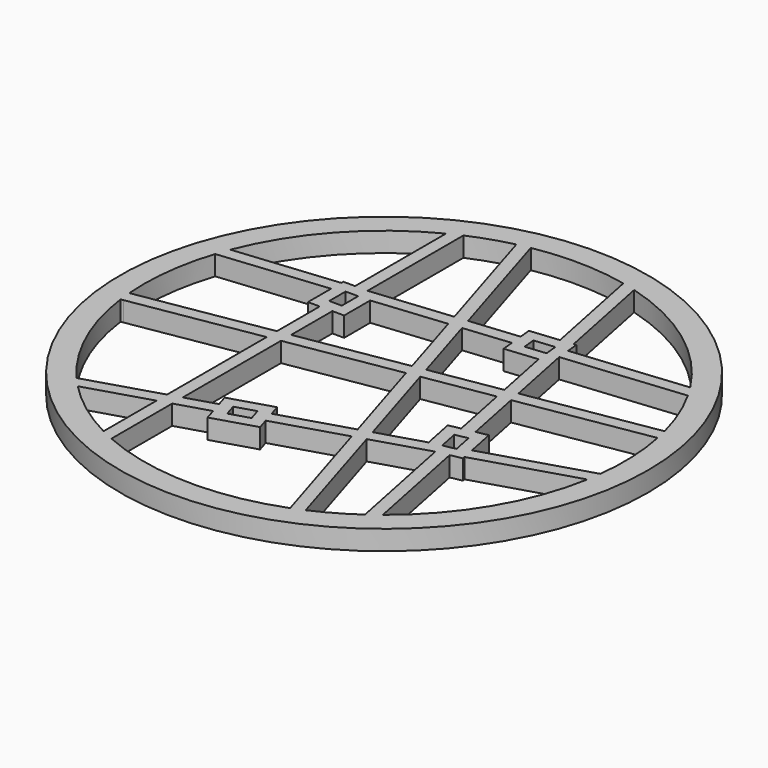
from build123d import *

# Parameters (mm, degrees)
F0_R     = 67
F0_W     = 3.2
F0_H     = 5.2
F1_DEPTH = 5


with BuildPart() as f1:
    # F0 (on Top) → F1 (new body)
    with BuildSketch(Plane.XY):
        Circle(F0_R)
        with BuildLine():
            Line((-43.8061632072, -42.4502068907), (-27.7453339126, -37.5246361488))
            Line((-27.7453339126, -37.5246361488), (-27.7453339126, -54.3249155184))
            ThreePointArc((-27.7453339126, -54.3249155184), (-36.2650846031, -49.0493999834), (-43.8061632072, -42.4502068907))
        make_face(mode=Mode.SUBTRACT)
        with BuildLine():
            Line((-24.5453339126, -36.543253053), (-16.2077082994, -33.9862515417))
            Line((-16.2077082994, -33.9862515417), (-15.32809766, -36.8544016639))
            Line((-15.32809766, -36.8544016639), (-4.620337204, -33.5705219434))
            Line((-4.620337204, -33.5705219434), (-5.4999478434, -30.7023718213))
            Line((-5.4999478434, -30.7023718213), (12.0330121636, -25.3253247681))
            Line((12.0330121636, -25.3253247681), (21.7448194921, -56.9926558888))
            ThreePointArc((21.7448194921, -56.9926558888), (-1.5135076095, -60.9812208365), (-24.5453339126, -55.8437694208))
            Line((-24.5453339126, -55.8437694208), (-24.5453339126, -36.543253053))
        make_face(mode=Mode.SUBTRACT)
        with BuildLine():
            Line((-27.7453339126, -2.5714068584), (-27.7453339126, -34.1775310144))
            Line((-27.7453339126, -34.1775310144), (-46.1961790611, -39.8360771181))
            ThreePointArc((-46.1961790611, -39.8360771181), (-55.6535662863, -24.9735972503), (-60.469385046, -8.0282919824))
            Line((-60.469385046, -8.0282919824), (-59.8046514096, -7.9174446097))
            Line((-59.8046514096, -7.9174446097), (-27.7453339126, -2.5714068584))
        make_face(mode=Mode.SUBTRACT)
        Polygon((-13.3395581772, -33.1066409023), (-14.2778095259, -30.0472807721), (-9.3063493142, -28.5226223304), (-8.3680979656, -31.5819824607), align=None, mode=Mode.SUBTRACT)
        Polygon((-18.0255702875, -28.0587412893), (-17.1459596481, -30.9268914115), (-24.5453339126, -33.1961479186), (-24.5453339126, -2.0377922297), (3.4589808569, 2.6320552794), (11.0947608149, -22.2659646378), (-6.4381991921, -27.643011691), (-7.3178098315, -24.7748615689), align=None, mode=Mode.SUBTRACT)
        with BuildLine():
            Line((15.0923722939, -24.3870734194), (29.0776945802, -20.098023769))
            Line((29.0776945802, -20.098023769), (35.0708025243, -49.9103076559))
            ThreePointArc((35.0708025243, -49.9103076559), (30.0367604433, -53.0923066185), (24.7164230966, -55.7682564665))
            Line((24.7164230966, -55.7682564665), (15.0923722939, -24.3870734194))
        make_face(mode=Mode.SUBTRACT)
        with BuildLine():
            Line((37.9086808974, -47.790500234), (32.2192885129, -19.4890275267))
            Line((32.2192885129, -19.4890275267), (35.16044758, -18.8977717934))
            Line((35.16044758, -18.8977717934), (35.0344853908, -18.2711819544))
            Line((35.0344853908, -18.2711819544), (60.0733303031, -10.5922134746))
            ThreePointArc((60.0733303031, -10.5922134746), (52.402736228, -31.2242411568), (37.9086808974, -47.790500234))
        make_face(mode=Mode.SUBTRACT)
        Polygon((31.6280327797, -16.5478684596), (28.4907964414, -17.1785412418), (27.4659531704, -12.0805321921), (30.6031895087, -11.44985941), align=None, mode=Mode.SUBTRACT)
        Polygon((23.8255728418, 6.0282775984), (26.8746974372, -9.1393731251), (23.9335383701, -9.7306288583), (25.5615882832, -17.8292459105), (14.1541209452, -21.3277132891), (6.6432408292, 3.1630451865), align=None, mode=Mode.SUBTRACT)
        with BuildLine():
            Line((60.5868434596, -7.0876229867), (34.400697228, -15.1184483792))
            Line((34.400697228, -15.1184483792), (32.9530928425, -7.9174446097))
            Line((32.9530928425, -7.9174446097), (30.0119337754, -8.5087003429))
            Line((30.0119337754, -8.5087003429), (26.9837234891, 6.5549136562))
            Line((26.9837234891, 6.5549136562), (59.802483499, 12.0275919182))
            ThreePointArc((59.802483499, 12.0275919182), (60.9487109921, 2.5009255083), (60.5868434596, -7.0876229867))
        make_face(mode=Mode.SUBTRACT)
        with BuildLine():
            Line((-30.7453339126, 14.2669440508), (-27.7453339126, 14.2669440508))
            Line((-27.7453339126, 14.2669440508), (-27.7453339126, 0.6727794143))
            Line((-27.7453339126, 0.6727794143), (-60.8076429886, -4.8405117679))
            ThreePointArc((-60.8076429886, -4.8405117679), (-60.5773112158, 7.1686376578), (-57.9982415713, 18.899840598))
            Line((-57.9982415713, 18.899840598), (-30.7453339126, 21.6120113579))
            Line((-30.7453339126, 21.6120113579), (-30.7453339126, 14.2669440508))
        make_face(mode=Mode.SUBTRACT)
        Polygon((-24.5453339126, 1.206394043), (-24.5453339126, 14.2669440508), (-21.5453339126, 14.2669440508), (-21.5453339126, 22.5275823238), (-3.2024586813, 24.3530392797), (2.5124526937, 5.7184036538), align=None, mode=Mode.SUBTRACT)
        Polygon((0.0455163714, 24.6762731554), (11.7609695409, 25.842178457), (12.0580577422, 22.8569249334), (20.278090913, 23.6749709889), (23.1945533758, 9.1672384904), (5.6967126659, 6.249393561), align=None, mode=Mode.SUBTRACT)
        with Locations((-26.1453339126, 19.8669440508)):
            Rectangle(F0_W, F0_H, mode=Mode.SUBTRACT)
        with BuildLine():
            Line((-27.7453339126, 54.3249155184), (-27.7453339126, 25.4669440508))
            Line((-27.7453339126, 25.4669440508), (-30.7453339126, 25.4669440508))
            Line((-30.7453339126, 25.4669440508), (-30.7453339126, 24.8278186332))
            Line((-30.7453339126, 24.8278186332), (-56.8033838043, 22.2345584255))
            ThreePointArc((-56.8033838043, 22.2345584255), (-45.2169124497, 40.9442404804), (-27.7453339126, 54.3249155184))
        make_face(mode=Mode.SUBTRACT)
        with BuildLine():
            Line((-4.1594807198, 27.4736050776), (-24.5453339126, 25.4448338493))
            Line((-24.5453339126, 25.4448338493), (-24.5453339126, 55.8437694208))
            ThreePointArc((-24.5453339126, 55.8437694208), (-19.3268992288, 57.8573328646), (-13.9459622608, 59.384426718))
            Line((-13.9459622608, 59.384426718), (-4.1594807198, 27.4736050776))
        make_face(mode=Mode.SUBTRACT)
        with BuildLine():
            Line((11.1469872581, 32.011702406), (11.4440754595, 29.0264488823))
            Line((11.4440754595, 29.0264488823), (-0.9115056672, 27.7968389533))
            Line((-0.9115056672, 27.7968389533), (-10.7988456048, 60.036529993))
            ThreePointArc((-10.7988456048, 60.036529993), (1.1523404732, 60.9891146963), (13.0590128663, 59.5857548661))
            Line((13.0590128663, 59.5857548661), (18.4559499448, 32.7390800176))
            Line((18.4559499448, 32.7390800176), (11.1469872581, 32.011702406))
        make_face(mode=Mode.SUBTRACT)
        Polygon((19.6037684242, 29.838489966), (19.9206625056, 26.6542195407), (14.7462230646, 26.1392666584), (14.4293289831, 29.3235370836), align=None, mode=Mode.SUBTRACT)
        with BuildLine():
            Line((22.8839145104, 26.9491181821), (22.9059160293, 26.951307742))
            Line((22.9059160293, 26.951307742), (53.1358049871, 29.9597434631))
            ThreePointArc((53.1358049871, 29.9597434631), (56.5982407155, 22.7516845071), (59.0880479964, 15.1526428049))
            Line((59.0880479964, 15.1526428049), (26.3527040231, 9.6938745483))
            Line((26.3527040231, 9.6938745483), (22.8839145104, 26.9491181821))
        make_face(mode=Mode.SUBTRACT)
        with BuildLine():
            ThreePointArc((16.4956071696, 58.7272930085), (36.2609976032, 49.0524214776), (51.3071590572, 32.9935664862))
            Line((51.3071590572, 32.9935664862), (22.5890219478, 30.1355781673))
            Line((22.5890219478, 30.1355781673), (22.2919337465, 33.120831691))
            Line((22.2919337465, 33.120831691), (21.6559499448, 33.0575394841))
            Line((21.6559499448, 33.0575394841), (16.4956071696, 58.7272930085))
        make_face(mode=Mode.SUBTRACT)
    extrude(amount=F1_DEPTH)


solid = f1.part
